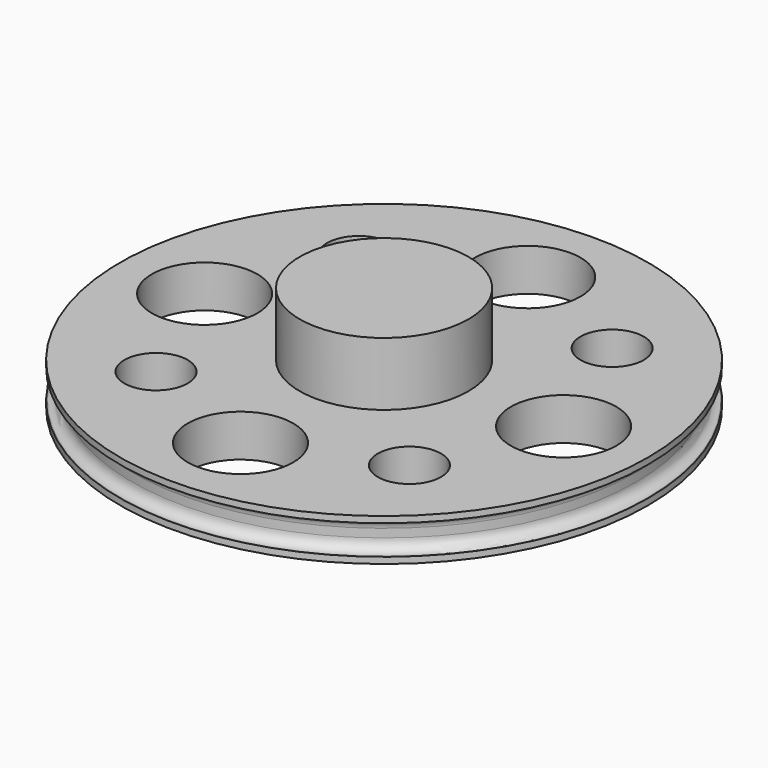
from build123d import *

# Parameters (mm, degrees)
CYLINDER001_R     = 8
CYLINDER001_DEPTH = 10
CYLINDER011_R     = 23.9
CYLINDER011_DEPTH = 2.8
CYLINDER010_R     = 25
CYLINDER010_DEPTH = 2.8
CYLINDER009_R     = 3
CYLINDER009_DEPTH = 10
CYLINDER002_R     = 5
CYLINDER002_DEPTH = 15
CYLINDER008_R     = 3
CYLINDER008_DEPTH = 10
CYLINDER005_R     = 5
CYLINDER005_DEPTH = 15
CYLINDER006_R     = 3
CYLINDER006_DEPTH = 10
CYLINDER003_R     = 5
CYLINDER003_DEPTH = 15
CYLINDER007_R     = 3
CYLINDER007_DEPTH = 10
CYLINDER004_R     = 5
CYLINDER004_DEPTH = 15
CYLINDER_R        = 25
CYLINDER_DEPTH    = 4
FILLET_R          = 1


with BuildPart() as cilindro001:
    # Cylinder001 → Cylinder001 (new body)
    with BuildSketch(Plane.XY):
        Circle(CYLINDER001_R)
    extrude(amount=CYLINDER001_DEPTH)


with BuildPart() as cilindro011:
    # Cylinder011 → Cylinder011 (new body)
    with BuildSketch(Plane.XY.offset(0.6)):
        Circle(CYLINDER011_R)
    extrude(amount=CYLINDER011_DEPTH)


with BuildPart() as cut008:
    # Cylinder010 → Cylinder010 (new body)
    with BuildSketch(Plane.XY.offset(0.6)):
        Circle(CYLINDER010_R)
    extrude(amount=CYLINDER010_DEPTH)

    # Cut008: cut Cilindro011
    add(cilindro011.part, mode=Mode.SUBTRACT)


with BuildPart() as cilindro009:
    # Cylinder009 → Cylinder009 (new body)
    with BuildSketch(Plane(origin=(12, 12, -2), x_dir=(1, 0, 0), z_dir=(0, 0, 1))):
        Circle(CYLINDER009_R)
    extrude(amount=CYLINDER009_DEPTH)


with BuildPart() as cilindro002:
    # Cylinder002 → Cylinder002 (new body)
    with BuildSketch(Plane(origin=(17, 0, -2), x_dir=(1, 0, 0), z_dir=(0, 0, 1))):
        Circle(CYLINDER002_R)
    extrude(amount=CYLINDER002_DEPTH)


with BuildPart() as cilindro008:
    # Cylinder008 → Cylinder008 (new body)
    with BuildSketch(Plane(origin=(12, -12, -2), x_dir=(1, 0, 0), z_dir=(0, 0, 1))):
        Circle(CYLINDER008_R)
    extrude(amount=CYLINDER008_DEPTH)


with BuildPart() as cilindro005:
    # Cylinder005 → Cylinder005 (new body)
    with BuildSketch(Plane(origin=(0, -17, -2), x_dir=(1, 0, 0), z_dir=(0, 0, 1))):
        Circle(CYLINDER005_R)
    extrude(amount=CYLINDER005_DEPTH)


with BuildPart() as cilindro006:
    # Cylinder006 → Cylinder006 (new body)
    with BuildSketch(Plane(origin=(-12, -12, -2), x_dir=(1, 0, 0), z_dir=(0, 0, 1))):
        Circle(CYLINDER006_R)
    extrude(amount=CYLINDER006_DEPTH)


with BuildPart() as cilindro003:
    # Cylinder003 → Cylinder003 (new body)
    with BuildSketch(Plane(origin=(-17, 0, -2), x_dir=(1, 0, 0), z_dir=(0, 0, 1))):
        Circle(CYLINDER003_R)
    extrude(amount=CYLINDER003_DEPTH)


with BuildPart() as cilindro007:
    # Cylinder007 → Cylinder007 (new body)
    with BuildSketch(Plane(origin=(-12, 12, -2), x_dir=(1, 0, 0), z_dir=(0, 0, 1))):
        Circle(CYLINDER007_R)
    extrude(amount=CYLINDER007_DEPTH)


with BuildPart() as cilindro004:
    # Cylinder004 → Cylinder004 (new body)
    with BuildSketch(Plane(origin=(0, 17, -2), x_dir=(1, 0, 0), z_dir=(0, 0, 1))):
        Circle(CYLINDER004_R)
    extrude(amount=CYLINDER004_DEPTH)


with BuildPart() as fillet_body:
    # Cylinder → Cylinder (new body)
    with BuildSketch(Plane.XY):
        Circle(CYLINDER_R)
    extrude(amount=CYLINDER_DEPTH)

    # Cut: cut Cilindro004
    add(cilindro004.part, mode=Mode.SUBTRACT)

    # Cut001: cut Cilindro007
    add(cilindro007.part, mode=Mode.SUBTRACT)

    # Cut002: cut Cilindro003
    add(cilindro003.part, mode=Mode.SUBTRACT)

    # Cut003: cut Cilindro006
    add(cilindro006.part, mode=Mode.SUBTRACT)

    # Cut004: cut Cilindro005
    add(cilindro005.part, mode=Mode.SUBTRACT)

    # Cut005: cut Cilindro008
    add(cilindro008.part, mode=Mode.SUBTRACT)

    # Cut006: cut Cilindro002
    add(cilindro002.part, mode=Mode.SUBTRACT)

    # Cut007: cut Cilindro009
    add(cilindro009.part, mode=Mode.SUBTRACT)

    # Cut009: cut Cut008
    add(cut008.part, mode=Mode.SUBTRACT)

    # Fillet
    fillet_edges = [fillet_body.edges().sort_by_distance(p)[0] for p in [
        (-23.9, 0, 3.4),
        (-23.9, 0, 0.6),
    ]]
    fillet(fillet_edges, radius=FILLET_R)


solid = Compound([cilindro001.part, fillet_body.part])
